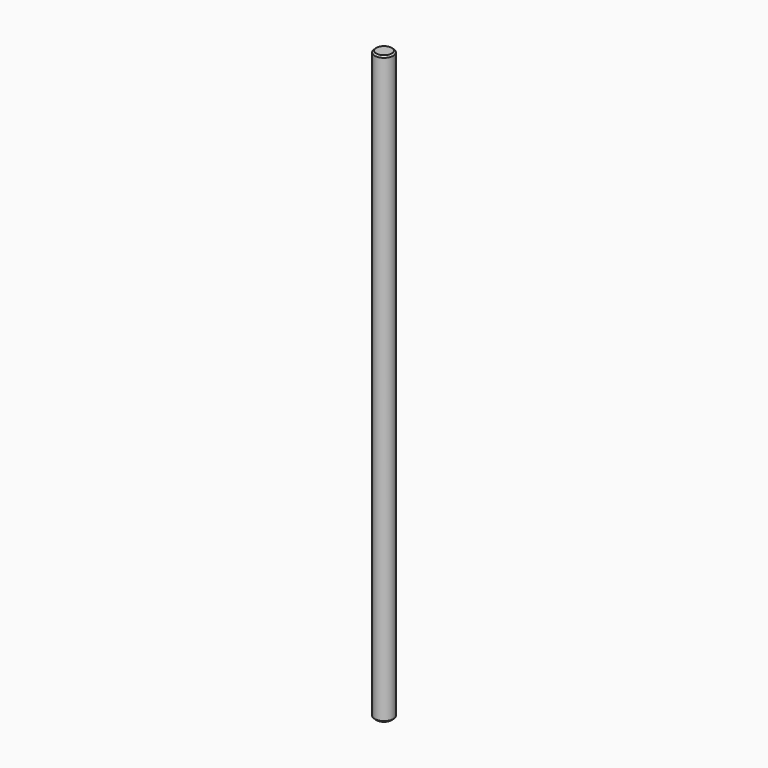
from build123d import *

# Parameters (mm, degrees)
SKETCH_R     = 6
PAD_DEPTH    = 380
CHAMFER_SIZE = 1


with BuildPart() as part:
    # Sketch → Pad (new body)
    with BuildSketch(Plane.XY):
        Circle(SKETCH_R)
    extrude(amount=PAD_DEPTH)

    # Chamfer
    chamfer_edges = [part.edges().sort_by_distance(p)[0] for p in [
        (-6, 0, 0),
        (-6, 0, 380),
    ]]
    chamfer(chamfer_edges, length=CHAMFER_SIZE)


solid = part.part
